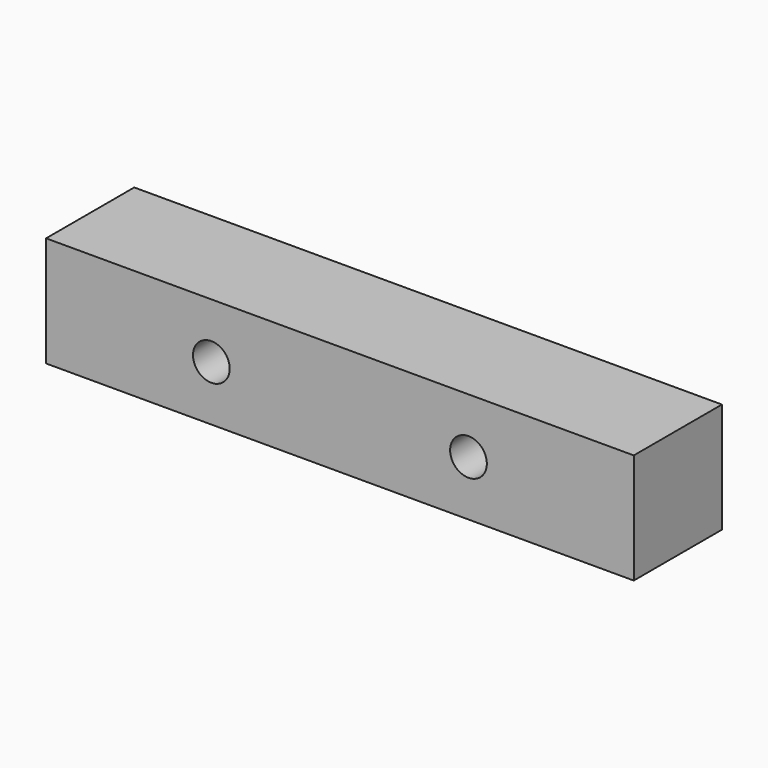
from build123d import *

# Parameters (mm, degrees)
F3_W     = 63.5
F3_H     = 19.05
F3_R     = 3.175
F3_W_2   = 19.05
F4_DEPTH = 19.05


with BuildPart() as f4:
    # F3 (on Front) → F4 (new body)
    with BuildSketch(Plane.XZ):
        Rectangle(F3_W, F3_H)
        with Locations((-22.225, 0)):
            Circle(F3_R, mode=Mode.SUBTRACT)
        with Locations((22.225, 0)):
            Circle(F3_R, mode=Mode.SUBTRACT)
        with Locations((41.275, 0)):
            Rectangle(F3_W_2, F3_H)
        with Locations((-41.275, 0)):
            Rectangle(F3_W_2, F3_H)
    extrude(amount=F4_DEPTH)


solid = f4.part
